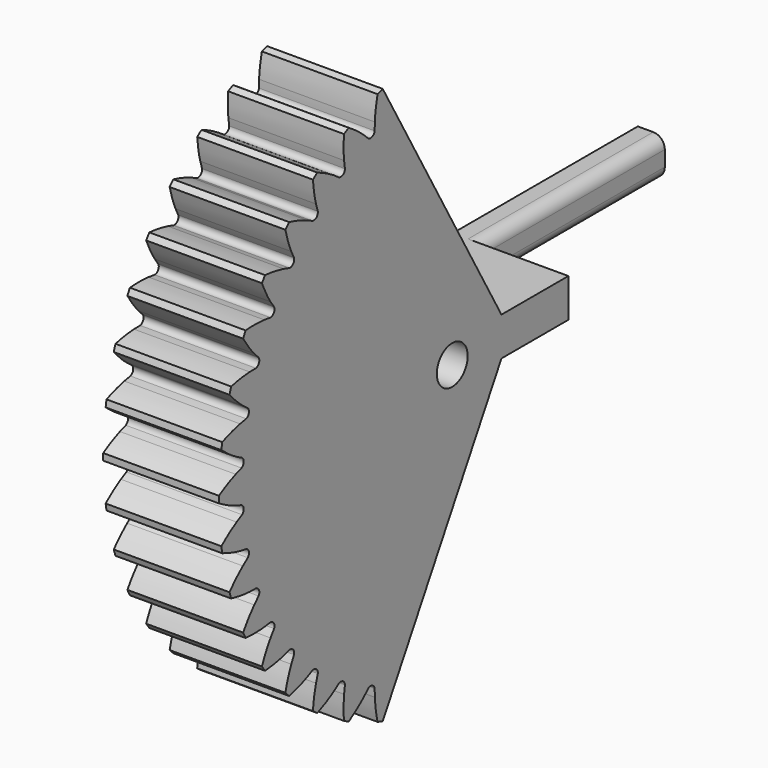
from build123d import *

# Parameters (mm, degrees)
PAD004_DEPTH    = 15
SKETCH005_R     = 2.5
POCKET003_DEPTH = 20
PAD005_DEPTH    = 15
SKETCH008_W     = 5
SKETCH008_H     = 11.5
POCKET005_DEPTH = 30
FILLET_R        = 1.5


with BuildPart() as part:
    # InvoluteGear002 → Pad004 (new body)
    with BuildSketch(Plane(origin=(-134, 40, -55), x_dir=(0, 0, -1), z_dir=(1, 0, 0))):
        with BuildLine():
            add(Edge.make_bspline(
                [(34.13439, -2.117405), (34.426388, -2.029531), (34.745372, -1.921268), (35.08908, -1.788181)],
                knots=[0, 0, 0, 0, 1, 1, 1, 1], degree=3))
            add(Edge.make_bspline(
                [(35.08908, -1.788181), (35.876114, -1.483351), (36.790038, -1.049843), (37.797886, -0.437541)],
                knots=[0, 0, 0, 0, 1, 1, 1, 1], degree=3))
            ThreePointArc((37.797886, -0.437541), (37.800418, 0), (37.797886, 0.437541))
            add(Edge.make_bspline(
                [(37.797886, 0.437541), (36.790038, 1.049843), (35.876114, 1.483351), (35.08908, 1.788181)],
                knots=[0, 0, 0, 0, 1, 1, 1, 1], degree=3))
            add(Edge.make_bspline(
                [(35.08908, 1.788181), (34.745372, 1.921268), (34.426388, 2.029531), (34.134407, 2.117398)],
                knots=[0, 0, 0, 0, 1, 1, 1, 1], degree=3))
            ThreePointArc((34.134407, 2.117398), (33.781657, 2.658666), (34.045374, 3.248458))
            add(Edge.make_bspline(
                [(34.045374, 3.248458), (34.320031, 3.38093), (34.618152, 3.53776), (34.936808, 3.722976)],
                knots=[0, 0, 0, 0, 1, 1, 1, 1], degree=3))
            add(Edge.make_bspline(
                [(34.936808, 3.722976), (35.666466, 4.147172), (36.501323, 4.718312), (37.400977, 5.480738)],
                knots=[0, 0, 0, 0, 1, 1, 1, 1], degree=3))
            ThreePointArc((37.400977, 5.480738), (37.335032, 5.913288), (37.264084, 6.345046))
            add(Edge.make_bspline(
                [(37.264084, 6.345046), (36.17286, 6.792148), (35.202372, 7.077349), (34.377342, 7.255307)],
                knots=[0, 0, 0, 0, 1, 1, 1, 1], degree=3))
            add(Edge.make_bspline(
                [(34.377342, 7.255307), (34.017047, 7.332988), (33.685054, 7.390018), (33.382921, 7.431127)],
                knots=[0, 0, 0, 0, 1, 1, 1, 1], degree=3))
            ThreePointArc((33.382921, 7.431127), (32.949842, 7.910548), (33.118048, 8.534334))
            add(Edge.make_bspline(
                [(33.118048, 8.534334), (33.3686, 8.708141), (33.638517, 8.909676), (33.924276, 9.142461)],
                knots=[0, 0, 0, 0, 1, 1, 1, 1], degree=3))
            add(Edge.make_bspline(
                [(33.924276, 9.142461), (34.578592, 9.675578), (35.313825, 10.370287), (36.083133, 11.264063)],
                knots=[0, 0, 0, 0, 1, 1, 1, 1], degree=3))
            ThreePointArc((36.083133, 11.264063), (35.950334, 11.680972), (35.812718, 12.096315))
            add(Edge.make_bspline(
                [(35.812718, 12.096315), (34.664986, 12.367207), (33.661831, 12.49708), (32.81912, 12.543783)],
                knots=[0, 0, 0, 0, 1, 1, 1, 1], degree=3))
            add(Edge.make_bspline(
                [(32.81912, 12.543783), (32.451108, 12.564145), (32.114281, 12.568538), (31.809438, 12.561877)],
                knots=[0, 0, 0, 0, 1, 1, 1, 1], degree=3))
            ThreePointArc((31.809438, 12.561877), (31.306692, 12.967647), (31.375246, 13.610067))
            add(Edge.make_bspline(
                [(31.375246, 13.610067), (31.595524, 13.820928), (31.830591, 14.062207), (32.076416, 14.336828)],
                knots=[0, 0, 0, 0, 1, 1, 1, 1], degree=3))
            add(Edge.make_bspline(
                [(32.076416, 14.336828), (32.639279, 14.965739), (33.256783, 15.766911), (33.876802, 16.770029)],
                knots=[0, 0, 0, 0, 1, 1, 1, 1], degree=3))
            ThreePointArc((33.876802, 16.770029), (33.680419, 17.161031), (33.479523, 17.549733))
            add(Edge.make_bspline(
                [(33.479523, 17.549733), (32.303545, 17.637745), (31.292424, 17.60909), (30.452782, 17.52339)],
                knots=[0, 0, 0, 0, 1, 1, 1, 1], degree=3))
            add(Edge.make_bspline(
                [(30.452782, 17.52339), (30.086116, 17.485931), (29.752749, 17.437578), (29.4527, 17.383312)],
                knots=[0, 0, 0, 0, 1, 1, 1, 1], degree=3))
            ThreePointArc((29.4527, 17.383312), (28.892668, 17.70544), (28.859881, 18.350674))
            add(Edge.make_bspline(
                [(28.859881, 18.350674), (29.044461, 18.593398), (29.23889, 18.868479), (29.438728, 19.178175)],
                knots=[0, 0, 0, 0, 1, 1, 1, 1], degree=3))
            add(Edge.make_bspline(
                [(29.438728, 19.178175), (29.896278, 19.887394), (30.380848, 20.775301), (30.836312, 21.863062)],
                knots=[0, 0, 0, 0, 1, 1, 1, 1], degree=3))
            ThreePointArc((30.836312, 21.863062), (30.58118, 22.218528), (30.321952, 22.571018))
            add(Edge.make_bspline(
                [(30.321952, 22.571018), (29.146683, 22.473983), (28.152494, 22.287507), (27.336596, 22.071512)],
                knots=[0, 0, 0, 0, 1, 1, 1, 1], degree=3))
            add(Edge.make_bspline(
                [(27.336596, 22.071512), (26.980304, 21.977156), (26.658605, 21.877248), (26.370739, 21.776712)],
                knots=[0, 0, 0, 0, 1, 1, 1, 1], degree=3))
            ThreePointArc((26.370739, 21.776712), (25.76721, 22.007265), (25.633891, 22.639427))
            add(Edge.make_bspline(
                [(25.633891, 22.639427), (25.778228, 22.908038), (25.92723, 23.210147), (26.076161, 23.547291)],
                knots=[0, 0, 0, 0, 1, 1, 1, 1], degree=3))
            add(Edge.make_bspline(
                [(26.076161, 23.547291), (26.417131, 24.319356), (26.756836, 25.272134), (27.036529, 26.417753)],
                knots=[0, 0, 0, 0, 1, 1, 1, 1], degree=3))
            ThreePointArc((27.036529, 26.417753), (26.728932, 26.728932), (26.417753, 27.036529))
            add(Edge.make_bspline(
                [(26.417753, 27.036529), (25.272134, 26.756836), (24.319356, 26.417131), (23.547291, 26.076161)],
                knots=[0, 0, 0, 0, 1, 1, 1, 1], degree=3))
            add(Edge.make_bspline(
                [(23.547291, 26.076161), (23.210147, 25.92723), (22.908038, 25.778228), (22.639444, 25.633897)],
                knots=[0, 0, 0, 0, 1, 1, 1, 1], degree=3))
            ThreePointArc((22.639444, 25.633897), (22.007278, 25.767199), (21.776708, 26.370722))
            add(Edge.make_bspline(
                [(21.776708, 26.370722), (21.877248, 26.658605), (21.977156, 26.980304), (22.071512, 27.336596)],
                knots=[0, 0, 0, 0, 1, 1, 1, 1], degree=3))
            add(Edge.make_bspline(
                [(22.071512, 27.336596), (22.287507, 28.152494), (22.473983, 29.146683), (22.571018, 30.321952)],
                knots=[0, 0, 0, 0, 1, 1, 1, 1], degree=3))
            ThreePointArc((22.571018, 30.321952), (22.218528, 30.58118), (21.863062, 30.836312))
            add(Edge.make_bspline(
                [(21.863062, 30.836312), (20.775301, 30.380848), (19.887394, 29.896278), (19.178175, 29.438728)],
                knots=[0, 0, 0, 0, 1, 1, 1, 1], degree=3))
            add(Edge.make_bspline(
                [(19.178175, 29.438728), (18.868479, 29.23889), (18.593398, 29.044461), (18.35069, 28.85989)],
                knots=[0, 0, 0, 0, 1, 1, 1, 1], degree=3))
            ThreePointArc((18.35069, 28.85989), (17.705454, 28.892659), (17.383311, 29.452682))
            add(Edge.make_bspline(
                [(17.383311, 29.452682), (17.437578, 29.752749), (17.485931, 30.086116), (17.52339, 30.452782)],
                knots=[0, 0, 0, 0, 1, 1, 1, 1], degree=3))
            add(Edge.make_bspline(
                [(17.52339, 30.452782), (17.60909, 31.292424), (17.637745, 32.303545), (17.549733, 33.479523)],
                knots=[0, 0, 0, 0, 1, 1, 1, 1], degree=3))
            ThreePointArc((17.549733, 33.479523), (17.161031, 33.680419), (16.770029, 33.876802))
            add(Edge.make_bspline(
                [(16.770029, 33.876802), (15.766911, 33.256783), (14.965739, 32.639279), (14.336828, 32.076416)],
                knots=[0, 0, 0, 0, 1, 1, 1, 1], degree=3))
            add(Edge.make_bspline(
                [(14.336828, 32.076416), (14.062207, 31.830591), (13.820928, 31.595524), (13.610081, 31.375258)],
                knots=[0, 0, 0, 0, 1, 1, 1, 1], degree=3))
            ThreePointArc((13.610081, 31.375258), (12.967663, 31.306686), (12.561879, 31.80942))
            add(Edge.make_bspline(
                [(12.561879, 31.80942), (12.568538, 32.114281), (12.564145, 32.451108), (12.543783, 32.81912)],
                knots=[0, 0, 0, 0, 1, 1, 1, 1], degree=3))
            add(Edge.make_bspline(
                [(12.543783, 32.81912), (12.49708, 33.661831), (12.367207, 34.664986), (12.096315, 35.812718)],
                knots=[0, 0, 0, 0, 1, 1, 1, 1], degree=3))
            ThreePointArc((12.096315, 35.812718), (11.680972, 35.950334), (11.264063, 36.083133))
            add(Edge.make_bspline(
                [(11.264063, 36.083133), (10.370287, 35.313825), (9.675578, 34.578592), (9.142461, 33.924276)],
                knots=[0, 0, 0, 0, 1, 1, 1, 1], degree=3))
            add(Edge.make_bspline(
                [(9.142461, 33.924276), (8.909676, 33.638517), (8.708141, 33.3686), (8.534346, 33.118062)],
                knots=[0, 0, 0, 0, 1, 1, 1, 1], degree=3))
            ThreePointArc((8.534346, 33.118062), (7.910565, 32.949838), (7.431132, 33.382904))
            add(Edge.make_bspline(
                [(7.431132, 33.382904), (7.390018, 33.685054), (7.332988, 34.017047), (7.255307, 34.377342)],
                knots=[0, 0, 0, 0, 1, 1, 1, 1], degree=3))
            add(Edge.make_bspline(
                [(7.255307, 34.377342), (7.077349, 35.202372), (6.792148, 36.17286), (6.345046, 37.264084)],
                knots=[0, 0, 0, 0, 1, 1, 1, 1], degree=3))
            ThreePointArc((6.345046, 37.264084), (5.913288, 37.335032), (5.480738, 37.400977))
            add(Edge.make_bspline(
                [(5.480738, 37.400977), (4.718312, 36.501323), (4.147172, 35.666466), (3.722976, 34.936808)],
                knots=[0, 0, 0, 0, 1, 1, 1, 1], degree=3))
            add(Edge.make_bspline(
                [(3.722976, 34.936808), (3.53776, 34.618152), (3.38093, 34.320031), (3.248468, 34.045389)],
                knots=[0, 0, 0, 0, 1, 1, 1, 1], degree=3))
            ThreePointArc((3.248468, 34.045389), (2.658682, 33.781655), (2.117405, 34.13439))
            add(Edge.make_bspline(
                [(2.117405, 34.13439), (2.029531, 34.426388), (1.921268, 34.745372), (1.788181, 35.08908)],
                knots=[0, 0, 0, 0, 1, 1, 1, 1], degree=3))
            add(Edge.make_bspline(
                [(1.788181, 35.08908), (1.483351, 35.876114), (1.049843, 36.790038), (0.437541, 37.797886)],
                knots=[0, 0, 0, 0, 1, 1, 1, 1], degree=3))
            ThreePointArc((0.437541, 37.797886), (0, 37.800418), (-0.437541, 37.797886))
            add(Edge.make_bspline(
                [(-0.437541, 37.797886), (-1.049843, 36.790038), (-1.483351, 35.876114), (-1.788181, 35.08908)],
                knots=[0, 0, 0, 0, 1, 1, 1, 1], degree=3))
            add(Edge.make_bspline(
                [(-1.788181, 35.08908), (-1.921268, 34.745372), (-2.029531, 34.426388), (-2.117398, 34.134407)],
                knots=[0, 0, 0, 0, 1, 1, 1, 1], degree=3))
            ThreePointArc((-2.117398, 34.134407), (-2.658666, 33.781657), (-3.248458, 34.045374))
            add(Edge.make_bspline(
                [(-3.248458, 34.045374), (-3.38093, 34.320031), (-3.53776, 34.618152), (-3.722976, 34.936808)],
                knots=[0, 0, 0, 0, 1, 1, 1, 1], degree=3))
            add(Edge.make_bspline(
                [(-3.722976, 34.936808), (-4.147172, 35.666466), (-4.718312, 36.501323), (-5.480738, 37.400977)],
                knots=[0, 0, 0, 0, 1, 1, 1, 1], degree=3))
            ThreePointArc((-5.480738, 37.400977), (-5.913288, 37.335032), (-6.345046, 37.264084))
            add(Edge.make_bspline(
                [(-6.345046, 37.264084), (-6.792148, 36.17286), (-7.077349, 35.202372), (-7.255307, 34.377342)],
                knots=[0, 0, 0, 0, 1, 1, 1, 1], degree=3))
            add(Edge.make_bspline(
                [(-7.255307, 34.377342), (-7.332988, 34.017047), (-7.390018, 33.685054), (-7.431127, 33.382921)],
                knots=[0, 0, 0, 0, 1, 1, 1, 1], degree=3))
            ThreePointArc((-7.431127, 33.382921), (-7.910548, 32.949842), (-8.534334, 33.118048))
            add(Edge.make_bspline(
                [(-8.534334, 33.118048), (-8.708141, 33.3686), (-8.909676, 33.638517), (-9.142461, 33.924276)],
                knots=[0, 0, 0, 0, 1, 1, 1, 1], degree=3))
            add(Edge.make_bspline(
                [(-9.142461, 33.924276), (-9.675578, 34.578592), (-10.370287, 35.313825), (-11.264063, 36.083133)],
                knots=[0, 0, 0, 0, 1, 1, 1, 1], degree=3))
            ThreePointArc((-11.264063, 36.083133), (-11.680972, 35.950334), (-12.096315, 35.812718))
            add(Edge.make_bspline(
                [(-12.096315, 35.812718), (-12.367207, 34.664986), (-12.49708, 33.661831), (-12.543783, 32.81912)],
                knots=[0, 0, 0, 0, 1, 1, 1, 1], degree=3))
            add(Edge.make_bspline(
                [(-12.543783, 32.81912), (-12.564145, 32.451108), (-12.568538, 32.114281), (-12.561877, 31.809438)],
                knots=[0, 0, 0, 0, 1, 1, 1, 1], degree=3))
            ThreePointArc((-12.561877, 31.809438), (-12.967647, 31.306692), (-13.610067, 31.375246))
            add(Edge.make_bspline(
                [(-13.610067, 31.375246), (-13.820928, 31.595524), (-14.062207, 31.830591), (-14.336828, 32.076416)],
                knots=[0, 0, 0, 0, 1, 1, 1, 1], degree=3))
            add(Edge.make_bspline(
                [(-14.336828, 32.076416), (-14.965739, 32.639279), (-15.766911, 33.256783), (-16.770029, 33.876802)],
                knots=[0, 0, 0, 0, 1, 1, 1, 1], degree=3))
            ThreePointArc((-16.770029, 33.876802), (-17.161031, 33.680419), (-17.549733, 33.479523))
            add(Edge.make_bspline(
                [(-17.549733, 33.479523), (-17.637745, 32.303545), (-17.60909, 31.292424), (-17.52339, 30.452782)],
                knots=[0, 0, 0, 0, 1, 1, 1, 1], degree=3))
            add(Edge.make_bspline(
                [(-17.52339, 30.452782), (-17.485931, 30.086116), (-17.437578, 29.752749), (-17.383312, 29.4527)],
                knots=[0, 0, 0, 0, 1, 1, 1, 1], degree=3))
            ThreePointArc((-17.383312, 29.4527), (-17.70544, 28.892668), (-18.350674, 28.859881))
            add(Edge.make_bspline(
                [(-18.350674, 28.859881), (-18.593398, 29.044461), (-18.868479, 29.23889), (-19.178175, 29.438728)],
                knots=[0, 0, 0, 0, 1, 1, 1, 1], degree=3))
            add(Edge.make_bspline(
                [(-19.178175, 29.438728), (-19.887394, 29.896278), (-20.775301, 30.380848), (-21.863062, 30.836312)],
                knots=[0, 0, 0, 0, 1, 1, 1, 1], degree=3))
            ThreePointArc((-21.863062, 30.836312), (-22.218528, 30.58118), (-22.571018, 30.321952))
            add(Edge.make_bspline(
                [(-22.571018, 30.321952), (-22.473983, 29.146683), (-22.287507, 28.152494), (-22.071512, 27.336596)],
                knots=[0, 0, 0, 0, 1, 1, 1, 1], degree=3))
            add(Edge.make_bspline(
                [(-22.071512, 27.336596), (-21.977156, 26.980304), (-21.877248, 26.658605), (-21.776712, 26.370739)],
                knots=[0, 0, 0, 0, 1, 1, 1, 1], degree=3))
            ThreePointArc((-21.776712, 26.370739), (-22.007265, 25.76721), (-22.639427, 25.633891))
            add(Edge.make_bspline(
                [(-22.639427, 25.633891), (-22.908038, 25.778228), (-23.210147, 25.92723), (-23.547291, 26.076161)],
                knots=[0, 0, 0, 0, 1, 1, 1, 1], degree=3))
            add(Edge.make_bspline(
                [(-23.547291, 26.076161), (-24.319356, 26.417131), (-25.272134, 26.756836), (-26.417753, 27.036529)],
                knots=[0, 0, 0, 0, 1, 1, 1, 1], degree=3))
            ThreePointArc((-26.417753, 27.036529), (-26.728932, 26.728932), (-27.036529, 26.417753))
            add(Edge.make_bspline(
                [(-27.036529, 26.417753), (-26.756836, 25.272134), (-26.417131, 24.319356), (-26.076161, 23.547291)],
                knots=[0, 0, 0, 0, 1, 1, 1, 1], degree=3))
            add(Edge.make_bspline(
                [(-26.076161, 23.547291), (-25.92723, 23.210147), (-25.778228, 22.908038), (-25.633897, 22.639444)],
                knots=[0, 0, 0, 0, 1, 1, 1, 1], degree=3))
            ThreePointArc((-25.633897, 22.639444), (-25.767199, 22.007278), (-26.370722, 21.776708))
            add(Edge.make_bspline(
                [(-26.370722, 21.776708), (-26.658605, 21.877248), (-26.980304, 21.977156), (-27.336596, 22.071512)],
                knots=[0, 0, 0, 0, 1, 1, 1, 1], degree=3))
            add(Edge.make_bspline(
                [(-27.336596, 22.071512), (-28.152494, 22.287507), (-29.146683, 22.473983), (-30.321952, 22.571018)],
                knots=[0, 0, 0, 0, 1, 1, 1, 1], degree=3))
            ThreePointArc((-30.321952, 22.571018), (-30.58118, 22.218528), (-30.836312, 21.863062))
            add(Edge.make_bspline(
                [(-30.836312, 21.863062), (-30.380848, 20.775301), (-29.896278, 19.887394), (-29.438728, 19.178175)],
                knots=[0, 0, 0, 0, 1, 1, 1, 1], degree=3))
            add(Edge.make_bspline(
                [(-29.438728, 19.178175), (-29.23889, 18.868479), (-29.044461, 18.593398), (-28.85989, 18.35069)],
                knots=[0, 0, 0, 0, 1, 1, 1, 1], degree=3))
            ThreePointArc((-28.85989, 18.35069), (-28.892659, 17.705454), (-29.452682, 17.383311))
            add(Edge.make_bspline(
                [(-29.452682, 17.383311), (-29.752749, 17.437578), (-30.086116, 17.485931), (-30.452782, 17.52339)],
                knots=[0, 0, 0, 0, 1, 1, 1, 1], degree=3))
            add(Edge.make_bspline(
                [(-30.452782, 17.52339), (-31.292424, 17.60909), (-32.303545, 17.637745), (-33.479523, 17.549733)],
                knots=[0, 0, 0, 0, 1, 1, 1, 1], degree=3))
            ThreePointArc((-33.479523, 17.549733), (-33.680419, 17.161031), (-33.876802, 16.770029))
            add(Edge.make_bspline(
                [(-33.876802, 16.770029), (-33.256783, 15.766911), (-32.639279, 14.965739), (-32.076416, 14.336828)],
                knots=[0, 0, 0, 0, 1, 1, 1, 1], degree=3))
            add(Edge.make_bspline(
                [(-32.076416, 14.336828), (-31.830591, 14.062207), (-31.595524, 13.820928), (-31.375258, 13.610081)],
                knots=[0, 0, 0, 0, 1, 1, 1, 1], degree=3))
            ThreePointArc((-31.375258, 13.610081), (-31.306686, 12.967663), (-31.80942, 12.561879))
            add(Edge.make_bspline(
                [(-31.80942, 12.561879), (-32.114281, 12.568538), (-32.451108, 12.564145), (-32.81912, 12.543783)],
                knots=[0, 0, 0, 0, 1, 1, 1, 1], degree=3))
            add(Edge.make_bspline(
                [(-32.81912, 12.543783), (-33.661831, 12.49708), (-34.664986, 12.367207), (-35.812718, 12.096315)],
                knots=[0, 0, 0, 0, 1, 1, 1, 1], degree=3))
            ThreePointArc((-35.812718, 12.096315), (-35.950334, 11.680972), (-36.083133, 11.264063))
            add(Edge.make_bspline(
                [(-36.083133, 11.264063), (-35.313825, 10.370287), (-34.578592, 9.675578), (-33.924276, 9.142461)],
                knots=[0, 0, 0, 0, 1, 1, 1, 1], degree=3))
            add(Edge.make_bspline(
                [(-33.924276, 9.142461), (-33.638517, 8.909676), (-33.3686, 8.708141), (-33.118062, 8.534346)],
                knots=[0, 0, 0, 0, 1, 1, 1, 1], degree=3))
            ThreePointArc((-33.118062, 8.534346), (-32.949838, 7.910565), (-33.382904, 7.431132))
            add(Edge.make_bspline(
                [(-33.382904, 7.431132), (-33.685054, 7.390018), (-34.017047, 7.332988), (-34.377342, 7.255307)],
                knots=[0, 0, 0, 0, 1, 1, 1, 1], degree=3))
            add(Edge.make_bspline(
                [(-34.377342, 7.255307), (-35.202372, 7.077349), (-36.17286, 6.792148), (-37.264084, 6.345046)],
                knots=[0, 0, 0, 0, 1, 1, 1, 1], degree=3))
            ThreePointArc((-37.264084, 6.345046), (-37.335032, 5.913288), (-37.400977, 5.480738))
            add(Edge.make_bspline(
                [(-37.400977, 5.480738), (-36.501323, 4.718312), (-35.666466, 4.147172), (-34.936808, 3.722976)],
                knots=[0, 0, 0, 0, 1, 1, 1, 1], degree=3))
            add(Edge.make_bspline(
                [(-34.936808, 3.722976), (-34.618152, 3.53776), (-34.320031, 3.38093), (-34.045389, 3.248468)],
                knots=[0, 0, 0, 0, 1, 1, 1, 1], degree=3))
            ThreePointArc((-34.045389, 3.248468), (-33.781655, 2.658682), (-34.13439, 2.117405))
            add(Edge.make_bspline(
                [(-34.13439, 2.117405), (-34.426388, 2.029531), (-34.745372, 1.921268), (-35.08908, 1.788181)],
                knots=[0, 0, 0, 0, 1, 1, 1, 1], degree=3))
            add(Edge.make_bspline(
                [(-35.08908, 1.788181), (-35.876114, 1.483351), (-36.790038, 1.049843), (-37.797886, 0.437541)],
                knots=[0, 0, 0, 0, 1, 1, 1, 1], degree=3))
            ThreePointArc((-37.797886, 0.437541), (-37.800418, 0), (-37.797886, -0.437541))
            add(Edge.make_bspline(
                [(-37.797886, -0.437541), (-36.790038, -1.049843), (-35.876114, -1.483351), (-35.08908, -1.788181)],
                knots=[0, 0, 0, 0, 1, 1, 1, 1], degree=3))
            add(Edge.make_bspline(
                [(-35.08908, -1.788181), (-34.745372, -1.921268), (-34.426388, -2.029531), (-34.134407, -2.117398)],
                knots=[0, 0, 0, 0, 1, 1, 1, 1], degree=3))
            ThreePointArc((-34.134407, -2.117398), (-33.781657, -2.658666), (-34.045374, -3.248458))
            add(Edge.make_bspline(
                [(-34.045374, -3.248458), (-34.320031, -3.38093), (-34.618152, -3.53776), (-34.936808, -3.722976)],
                knots=[0, 0, 0, 0, 1, 1, 1, 1], degree=3))
            add(Edge.make_bspline(
                [(-34.936808, -3.722976), (-35.666466, -4.147172), (-36.501323, -4.718312), (-37.400977, -5.480738)],
                knots=[0, 0, 0, 0, 1, 1, 1, 1], degree=3))
            ThreePointArc((-37.400977, -5.480738), (-37.335032, -5.913288), (-37.264084, -6.345046))
            add(Edge.make_bspline(
                [(-37.264084, -6.345046), (-36.17286, -6.792148), (-35.202372, -7.077349), (-34.377342, -7.255307)],
                knots=[0, 0, 0, 0, 1, 1, 1, 1], degree=3))
            add(Edge.make_bspline(
                [(-34.377342, -7.255307), (-34.017047, -7.332988), (-33.685054, -7.390018), (-33.382921, -7.431127)],
                knots=[0, 0, 0, 0, 1, 1, 1, 1], degree=3))
            ThreePointArc((-33.382921, -7.431127), (-32.949842, -7.910548), (-33.118048, -8.534334))
            add(Edge.make_bspline(
                [(-33.118048, -8.534334), (-33.3686, -8.708141), (-33.638517, -8.909676), (-33.924276, -9.142461)],
                knots=[0, 0, 0, 0, 1, 1, 1, 1], degree=3))
            add(Edge.make_bspline(
                [(-33.924276, -9.142461), (-34.578592, -9.675578), (-35.313825, -10.370287), (-36.083133, -11.264063)],
                knots=[0, 0, 0, 0, 1, 1, 1, 1], degree=3))
            ThreePointArc((-36.083133, -11.264063), (-35.950334, -11.680972), (-35.812718, -12.096315))
            add(Edge.make_bspline(
                [(-35.812718, -12.096315), (-34.664986, -12.367207), (-33.661831, -12.49708), (-32.81912, -12.543783)],
                knots=[0, 0, 0, 0, 1, 1, 1, 1], degree=3))
            add(Edge.make_bspline(
                [(-32.81912, -12.543783), (-32.451108, -12.564145), (-32.114281, -12.568538), (-31.809438, -12.561877)],
                knots=[0, 0, 0, 0, 1, 1, 1, 1], degree=3))
            ThreePointArc((-31.809438, -12.561877), (-31.306692, -12.967647), (-31.375246, -13.610067))
            add(Edge.make_bspline(
                [(-31.375246, -13.610067), (-31.595524, -13.820928), (-31.830591, -14.062207), (-32.076416, -14.336828)],
                knots=[0, 0, 0, 0, 1, 1, 1, 1], degree=3))
            add(Edge.make_bspline(
                [(-32.076416, -14.336828), (-32.639279, -14.965739), (-33.256783, -15.766911), (-33.876802, -16.770029)],
                knots=[0, 0, 0, 0, 1, 1, 1, 1], degree=3))
            ThreePointArc((-33.876802, -16.770029), (-33.680419, -17.161031), (-33.479523, -17.549733))
            add(Edge.make_bspline(
                [(-33.479523, -17.549733), (-32.303545, -17.637745), (-31.292424, -17.60909), (-30.452782, -17.52339)],
                knots=[0, 0, 0, 0, 1, 1, 1, 1], degree=3))
            add(Edge.make_bspline(
                [(-30.452782, -17.52339), (-30.086116, -17.485931), (-29.752749, -17.437578), (-29.4527, -17.383312)],
                knots=[0, 0, 0, 0, 1, 1, 1, 1], degree=3))
            ThreePointArc((-29.4527, -17.383312), (-28.892668, -17.70544), (-28.859881, -18.350674))
            add(Edge.make_bspline(
                [(-28.859881, -18.350674), (-29.044461, -18.593398), (-29.23889, -18.868479), (-29.438728, -19.178175)],
                knots=[0, 0, 0, 0, 1, 1, 1, 1], degree=3))
            add(Edge.make_bspline(
                [(-29.438728, -19.178175), (-29.896278, -19.887394), (-30.380848, -20.775301), (-30.836312, -21.863062)],
                knots=[0, 0, 0, 0, 1, 1, 1, 1], degree=3))
            ThreePointArc((-30.836312, -21.863062), (-30.58118, -22.218528), (-30.321952, -22.571018))
            add(Edge.make_bspline(
                [(-30.321952, -22.571018), (-29.146683, -22.473983), (-28.152494, -22.287507), (-27.336596, -22.071512)],
                knots=[0, 0, 0, 0, 1, 1, 1, 1], degree=3))
            add(Edge.make_bspline(
                [(-27.336596, -22.071512), (-26.980304, -21.977156), (-26.658605, -21.877248), (-26.370739, -21.776712)],
                knots=[0, 0, 0, 0, 1, 1, 1, 1], degree=3))
            ThreePointArc((-26.370739, -21.776712), (-25.76721, -22.007265), (-25.633891, -22.639427))
            add(Edge.make_bspline(
                [(-25.633891, -22.639427), (-25.778228, -22.908038), (-25.92723, -23.210147), (-26.076161, -23.547291)],
                knots=[0, 0, 0, 0, 1, 1, 1, 1], degree=3))
            add(Edge.make_bspline(
                [(-26.076161, -23.547291), (-26.417131, -24.319356), (-26.756836, -25.272134), (-27.036529, -26.417753)],
                knots=[0, 0, 0, 0, 1, 1, 1, 1], degree=3))
            ThreePointArc((-27.036529, -26.417753), (-26.728932, -26.728932), (-26.417753, -27.036529))
            add(Edge.make_bspline(
                [(-26.417753, -27.036529), (-25.272134, -26.756836), (-24.319356, -26.417131), (-23.547291, -26.076161)],
                knots=[0, 0, 0, 0, 1, 1, 1, 1], degree=3))
            add(Edge.make_bspline(
                [(-23.547291, -26.076161), (-23.210147, -25.92723), (-22.908038, -25.778228), (-22.639444, -25.633897)],
                knots=[0, 0, 0, 0, 1, 1, 1, 1], degree=3))
            ThreePointArc((-22.639444, -25.633897), (-22.007278, -25.767199), (-21.776708, -26.370722))
            add(Edge.make_bspline(
                [(-21.776708, -26.370722), (-21.877248, -26.658605), (-21.977156, -26.980304), (-22.071512, -27.336596)],
                knots=[0, 0, 0, 0, 1, 1, 1, 1], degree=3))
            add(Edge.make_bspline(
                [(-22.071512, -27.336596), (-22.287507, -28.152494), (-22.473983, -29.146683), (-22.571018, -30.321952)],
                knots=[0, 0, 0, 0, 1, 1, 1, 1], degree=3))
            ThreePointArc((-22.571018, -30.321952), (-22.218528, -30.58118), (-21.863062, -30.836312))
            add(Edge.make_bspline(
                [(-21.863062, -30.836312), (-20.775301, -30.380848), (-19.887394, -29.896278), (-19.178175, -29.438728)],
                knots=[0, 0, 0, 0, 1, 1, 1, 1], degree=3))
            add(Edge.make_bspline(
                [(-19.178175, -29.438728), (-18.868479, -29.23889), (-18.593398, -29.044461), (-18.35069, -28.85989)],
                knots=[0, 0, 0, 0, 1, 1, 1, 1], degree=3))
            ThreePointArc((-18.35069, -28.85989), (-17.705454, -28.892659), (-17.383311, -29.452682))
            add(Edge.make_bspline(
                [(-17.383311, -29.452682), (-17.437578, -29.752749), (-17.485931, -30.086116), (-17.52339, -30.452782)],
                knots=[0, 0, 0, 0, 1, 1, 1, 1], degree=3))
            add(Edge.make_bspline(
                [(-17.52339, -30.452782), (-17.60909, -31.292424), (-17.637745, -32.303545), (-17.549733, -33.479523)],
                knots=[0, 0, 0, 0, 1, 1, 1, 1], degree=3))
            ThreePointArc((-17.549733, -33.479523), (-17.161031, -33.680419), (-16.770029, -33.876802))
            add(Edge.make_bspline(
                [(-16.770029, -33.876802), (-15.766911, -33.256783), (-14.965739, -32.639279), (-14.336828, -32.076416)],
                knots=[0, 0, 0, 0, 1, 1, 1, 1], degree=3))
            add(Edge.make_bspline(
                [(-14.336828, -32.076416), (-14.062207, -31.830591), (-13.820928, -31.595524), (-13.610081, -31.375258)],
                knots=[0, 0, 0, 0, 1, 1, 1, 1], degree=3))
            ThreePointArc((-13.610081, -31.375258), (-12.967663, -31.306686), (-12.561879, -31.80942))
            add(Edge.make_bspline(
                [(-12.561879, -31.80942), (-12.568538, -32.114281), (-12.564145, -32.451108), (-12.543783, -32.81912)],
                knots=[0, 0, 0, 0, 1, 1, 1, 1], degree=3))
            add(Edge.make_bspline(
                [(-12.543783, -32.81912), (-12.49708, -33.661831), (-12.367207, -34.664986), (-12.096315, -35.812718)],
                knots=[0, 0, 0, 0, 1, 1, 1, 1], degree=3))
            ThreePointArc((-12.096315, -35.812718), (-11.680972, -35.950334), (-11.264063, -36.083133))
            add(Edge.make_bspline(
                [(-11.264063, -36.083133), (-10.370287, -35.313825), (-9.675578, -34.578592), (-9.142461, -33.924276)],
                knots=[0, 0, 0, 0, 1, 1, 1, 1], degree=3))
            add(Edge.make_bspline(
                [(-9.142461, -33.924276), (-8.909676, -33.638517), (-8.708141, -33.3686), (-8.534346, -33.118062)],
                knots=[0, 0, 0, 0, 1, 1, 1, 1], degree=3))
            ThreePointArc((-8.534346, -33.118062), (-7.910565, -32.949838), (-7.431132, -33.382904))
            add(Edge.make_bspline(
                [(-7.431132, -33.382904), (-7.390018, -33.685054), (-7.332988, -34.017047), (-7.255307, -34.377342)],
                knots=[0, 0, 0, 0, 1, 1, 1, 1], degree=3))
            add(Edge.make_bspline(
                [(-7.255307, -34.377342), (-7.077349, -35.202372), (-6.792148, -36.17286), (-6.345046, -37.264084)],
                knots=[0, 0, 0, 0, 1, 1, 1, 1], degree=3))
            ThreePointArc((-6.345046, -37.264084), (-5.913288, -37.335032), (-5.480738, -37.400977))
            add(Edge.make_bspline(
                [(-5.480738, -37.400977), (-4.718312, -36.501323), (-4.147172, -35.666466), (-3.722976, -34.936808)],
                knots=[0, 0, 0, 0, 1, 1, 1, 1], degree=3))
            add(Edge.make_bspline(
                [(-3.722976, -34.936808), (-3.53776, -34.618152), (-3.38093, -34.320031), (-3.248468, -34.045389)],
                knots=[0, 0, 0, 0, 1, 1, 1, 1], degree=3))
            ThreePointArc((-3.248468, -34.045389), (-2.658682, -33.781655), (-2.117405, -34.13439))
            add(Edge.make_bspline(
                [(-2.117405, -34.13439), (-2.029531, -34.426388), (-1.921268, -34.745372), (-1.788181, -35.08908)],
                knots=[0, 0, 0, 0, 1, 1, 1, 1], degree=3))
            add(Edge.make_bspline(
                [(-1.788181, -35.08908), (-1.483351, -35.876114), (-1.049843, -36.790038), (-0.437541, -37.797886)],
                knots=[0, 0, 0, 0, 1, 1, 1, 1], degree=3))
            ThreePointArc((-0.437541, -37.797886), (0, -37.800418), (0.437541, -37.797886))
            add(Edge.make_bspline(
                [(0.437541, -37.797886), (1.049843, -36.790038), (1.483351, -35.876114), (1.788181, -35.08908)],
                knots=[0, 0, 0, 0, 1, 1, 1, 1], degree=3))
            add(Edge.make_bspline(
                [(1.788181, -35.08908), (1.921268, -34.745372), (2.029531, -34.426388), (2.117398, -34.134407)],
                knots=[0, 0, 0, 0, 1, 1, 1, 1], degree=3))
            ThreePointArc((2.117398, -34.134407), (2.658666, -33.781657), (3.248458, -34.045374))
            add(Edge.make_bspline(
                [(3.248458, -34.045374), (3.38093, -34.320031), (3.53776, -34.618152), (3.722976, -34.936808)],
                knots=[0, 0, 0, 0, 1, 1, 1, 1], degree=3))
            add(Edge.make_bspline(
                [(3.722976, -34.936808), (4.147172, -35.666466), (4.718312, -36.501323), (5.480738, -37.400977)],
                knots=[0, 0, 0, 0, 1, 1, 1, 1], degree=3))
            ThreePointArc((5.480738, -37.400977), (5.913288, -37.335032), (6.345046, -37.264084))
            add(Edge.make_bspline(
                [(6.345046, -37.264084), (6.792148, -36.17286), (7.077349, -35.202372), (7.255307, -34.377342)],
                knots=[0, 0, 0, 0, 1, 1, 1, 1], degree=3))
            add(Edge.make_bspline(
                [(7.255307, -34.377342), (7.332988, -34.017047), (7.390018, -33.685054), (7.431127, -33.382921)],
                knots=[0, 0, 0, 0, 1, 1, 1, 1], degree=3))
            ThreePointArc((7.431127, -33.382921), (7.910548, -32.949842), (8.534334, -33.118048))
            add(Edge.make_bspline(
                [(8.534334, -33.118048), (8.708141, -33.3686), (8.909676, -33.638517), (9.142461, -33.924276)],
                knots=[0, 0, 0, 0, 1, 1, 1, 1], degree=3))
            add(Edge.make_bspline(
                [(9.142461, -33.924276), (9.675578, -34.578592), (10.370287, -35.313825), (11.264063, -36.083133)],
                knots=[0, 0, 0, 0, 1, 1, 1, 1], degree=3))
            ThreePointArc((11.264063, -36.083133), (11.680972, -35.950334), (12.096315, -35.812718))
            add(Edge.make_bspline(
                [(12.096315, -35.812718), (12.367207, -34.664986), (12.49708, -33.661831), (12.543783, -32.81912)],
                knots=[0, 0, 0, 0, 1, 1, 1, 1], degree=3))
            add(Edge.make_bspline(
                [(12.543783, -32.81912), (12.564145, -32.451108), (12.568538, -32.114281), (12.561877, -31.809438)],
                knots=[0, 0, 0, 0, 1, 1, 1, 1], degree=3))
            ThreePointArc((12.561877, -31.809438), (12.967647, -31.306692), (13.610067, -31.375246))
            add(Edge.make_bspline(
                [(13.610067, -31.375246), (13.820928, -31.595524), (14.062207, -31.830591), (14.336828, -32.076416)],
                knots=[0, 0, 0, 0, 1, 1, 1, 1], degree=3))
            add(Edge.make_bspline(
                [(14.336828, -32.076416), (14.965739, -32.639279), (15.766911, -33.256783), (16.770029, -33.876802)],
                knots=[0, 0, 0, 0, 1, 1, 1, 1], degree=3))
            ThreePointArc((16.770029, -33.876802), (17.161031, -33.680419), (17.549733, -33.479523))
            add(Edge.make_bspline(
                [(17.549733, -33.479523), (17.637745, -32.303545), (17.60909, -31.292424), (17.52339, -30.452782)],
                knots=[0, 0, 0, 0, 1, 1, 1, 1], degree=3))
            add(Edge.make_bspline(
                [(17.52339, -30.452782), (17.485931, -30.086116), (17.437578, -29.752749), (17.383312, -29.4527)],
                knots=[0, 0, 0, 0, 1, 1, 1, 1], degree=3))
            ThreePointArc((17.383312, -29.4527), (17.70544, -28.892668), (18.350674, -28.859881))
            add(Edge.make_bspline(
                [(18.350674, -28.859881), (18.593398, -29.044461), (18.868479, -29.23889), (19.178175, -29.438728)],
                knots=[0, 0, 0, 0, 1, 1, 1, 1], degree=3))
            add(Edge.make_bspline(
                [(19.178175, -29.438728), (19.887394, -29.896278), (20.775301, -30.380848), (21.863062, -30.836312)],
                knots=[0, 0, 0, 0, 1, 1, 1, 1], degree=3))
            ThreePointArc((21.863062, -30.836312), (22.218528, -30.58118), (22.571018, -30.321952))
            add(Edge.make_bspline(
                [(22.571018, -30.321952), (22.473983, -29.146683), (22.287507, -28.152494), (22.071512, -27.336596)],
                knots=[0, 0, 0, 0, 1, 1, 1, 1], degree=3))
            add(Edge.make_bspline(
                [(22.071512, -27.336596), (21.977156, -26.980304), (21.877248, -26.658605), (21.776712, -26.370739)],
                knots=[0, 0, 0, 0, 1, 1, 1, 1], degree=3))
            ThreePointArc((21.776712, -26.370739), (22.007265, -25.76721), (22.639427, -25.633891))
            add(Edge.make_bspline(
                [(22.639427, -25.633891), (22.908038, -25.778228), (23.210147, -25.92723), (23.547291, -26.076161)],
                knots=[0, 0, 0, 0, 1, 1, 1, 1], degree=3))
            add(Edge.make_bspline(
                [(23.547291, -26.076161), (24.319356, -26.417131), (25.272134, -26.756836), (26.417753, -27.036529)],
                knots=[0, 0, 0, 0, 1, 1, 1, 1], degree=3))
            ThreePointArc((26.417753, -27.036529), (26.728932, -26.728932), (27.036529, -26.417753))
            add(Edge.make_bspline(
                [(27.036529, -26.417753), (26.756836, -25.272134), (26.417131, -24.319356), (26.076161, -23.547291)],
                knots=[0, 0, 0, 0, 1, 1, 1, 1], degree=3))
            add(Edge.make_bspline(
                [(26.076161, -23.547291), (25.92723, -23.210147), (25.778228, -22.908038), (25.633897, -22.639444)],
                knots=[0, 0, 0, 0, 1, 1, 1, 1], degree=3))
            ThreePointArc((25.633897, -22.639444), (25.767199, -22.007278), (26.370722, -21.776708))
            add(Edge.make_bspline(
                [(26.370722, -21.776708), (26.658605, -21.877248), (26.980304, -21.977156), (27.336596, -22.071512)],
                knots=[0, 0, 0, 0, 1, 1, 1, 1], degree=3))
            add(Edge.make_bspline(
                [(27.336596, -22.071512), (28.152494, -22.287507), (29.146683, -22.473983), (30.321952, -22.571018)],
                knots=[0, 0, 0, 0, 1, 1, 1, 1], degree=3))
            ThreePointArc((30.321952, -22.571018), (30.58118, -22.218528), (30.836312, -21.863062))
            add(Edge.make_bspline(
                [(30.836312, -21.863062), (30.380848, -20.775301), (29.896278, -19.887394), (29.438728, -19.178175)],
                knots=[0, 0, 0, 0, 1, 1, 1, 1], degree=3))
            add(Edge.make_bspline(
                [(29.438728, -19.178175), (29.23889, -18.868479), (29.044461, -18.593398), (28.85989, -18.35069)],
                knots=[0, 0, 0, 0, 1, 1, 1, 1], degree=3))
            ThreePointArc((28.85989, -18.35069), (28.892659, -17.705454), (29.452682, -17.383311))
            add(Edge.make_bspline(
                [(29.452682, -17.383311), (29.752749, -17.437578), (30.086116, -17.485931), (30.452782, -17.52339)],
                knots=[0, 0, 0, 0, 1, 1, 1, 1], degree=3))
            add(Edge.make_bspline(
                [(30.452782, -17.52339), (31.292424, -17.60909), (32.303545, -17.637745), (33.479523, -17.549733)],
                knots=[0, 0, 0, 0, 1, 1, 1, 1], degree=3))
            ThreePointArc((33.479523, -17.549733), (33.680419, -17.161031), (33.876802, -16.770029))
            add(Edge.make_bspline(
                [(33.876802, -16.770029), (33.256783, -15.766911), (32.639279, -14.965739), (32.076416, -14.336828)],
                knots=[0, 0, 0, 0, 1, 1, 1, 1], degree=3))
            add(Edge.make_bspline(
                [(32.076416, -14.336828), (31.830591, -14.062207), (31.595524, -13.820928), (31.375258, -13.610081)],
                knots=[0, 0, 0, 0, 1, 1, 1, 1], degree=3))
            ThreePointArc((31.375258, -13.610081), (31.306686, -12.967663), (31.80942, -12.561879))
            add(Edge.make_bspline(
                [(31.80942, -12.561879), (32.114281, -12.568538), (32.451108, -12.564145), (32.81912, -12.543783)],
                knots=[0, 0, 0, 0, 1, 1, 1, 1], degree=3))
            add(Edge.make_bspline(
                [(32.81912, -12.543783), (33.661831, -12.49708), (34.664986, -12.367207), (35.812718, -12.096315)],
                knots=[0, 0, 0, 0, 1, 1, 1, 1], degree=3))
            ThreePointArc((35.812718, -12.096315), (35.950334, -11.680972), (36.083133, -11.264063))
            add(Edge.make_bspline(
                [(36.083133, -11.264063), (35.313825, -10.370287), (34.578592, -9.675578), (33.924276, -9.142461)],
                knots=[0, 0, 0, 0, 1, 1, 1, 1], degree=3))
            add(Edge.make_bspline(
                [(33.924276, -9.142461), (33.638517, -8.909676), (33.3686, -8.708141), (33.118062, -8.534346)],
                knots=[0, 0, 0, 0, 1, 1, 1, 1], degree=3))
            ThreePointArc((33.118062, -8.534346), (32.949838, -7.910565), (33.382904, -7.431132))
            add(Edge.make_bspline(
                [(33.382904, -7.431132), (33.685054, -7.390018), (34.017047, -7.332988), (34.377342, -7.255307)],
                knots=[0, 0, 0, 0, 1, 1, 1, 1], degree=3))
            add(Edge.make_bspline(
                [(34.377342, -7.255307), (35.202372, -7.077349), (36.17286, -6.792148), (37.264084, -6.345046)],
                knots=[0, 0, 0, 0, 1, 1, 1, 1], degree=3))
            ThreePointArc((37.264084, -6.345046), (37.335032, -5.913288), (37.400977, -5.480738))
            add(Edge.make_bspline(
                [(37.400977, -5.480738), (36.501323, -4.718312), (35.666466, -4.147172), (34.936808, -3.722976)],
                knots=[0, 0, 0, 0, 1, 1, 1, 1], degree=3))
            add(Edge.make_bspline(
                [(34.936808, -3.722976), (34.618152, -3.53776), (34.320031, -3.38093), (34.045389, -3.248468)],
                knots=[0, 0, 0, 0, 1, 1, 1, 1], degree=3))
            ThreePointArc((34.045389, -3.248468), (33.781655, -2.658682), (34.13439, -2.117405))
        make_face()
    extrude(amount=PAD004_DEPTH)

    # Sketch005 (on Face241 of Pad004) → Pocket003 (cut)
    with BuildSketch(Plane(origin=(-134, 40, -55), x_dir=(0, 0, -1), z_dir=(-1, 0, 0))):
        Circle(SKETCH005_R)
        Polygon((-36.083133, 11.264063), (-2.5, -7.972107), (-2.5, -49.217499), (-54.927559, -6.779163), align=None)
        Polygon((36.083133, 11.264063), (2.5, -7.972107), (2.5, -49.217499), (46.302185, -15.981873), align=None)
    extrude(amount=-POCKET003_DEPTH, mode=Mode.SUBTRACT)

    # Sketch006 (on Face1 of Pocket003) → Pad005 (join)
    with BuildSketch(Plane(origin=(-134, 40, -55), x_dir=(0, 0, -1), z_dir=(-1, 0, 0))):
        Polygon((-2.5, -33.813611), (2.5, -33.81361), (2.5, -48.81361), (-2.5, -48.81361), align=None)
    extrude(amount=-PAD005_DEPTH)

    # Sketch008 (on Face110 of Pad005) → Pocket005 (cut)
    with BuildSketch(Plane(origin=(-134, 88.81361, -55), x_dir=(0, 0, 1), z_dir=(0, 1, 0))):
        with Locations((0, 9.25)):
            Rectangle(SKETCH008_W, SKETCH008_H)
    extrude(amount=-POCKET005_DEPTH, mode=Mode.SUBTRACT)

    # Fillet
    fillet_edges = [part.edges().sort_by_distance(p)[0] for p in [
        (-130.5, 81.31361, -57.5),
        (-130.5, 66.31361, -57.5),
        (-130.5, 81.31361, -52.5),
        (-130.5, 66.31361, -52.5),
    ]]
    fillet(fillet_edges, radius=FILLET_R)


solid = part.part
